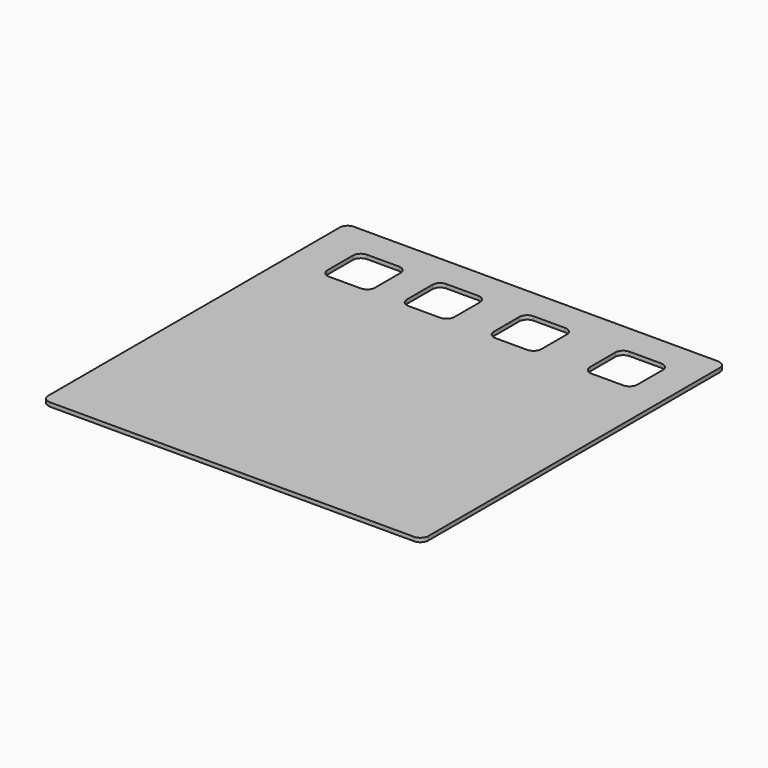
from build123d import *

# Parameters (mm, degrees)
F1_DEPTH = 3.175
F3_DEPTH = 3.175


with BuildPart() as f1:
    # F0 (on Top) → F1 (new body)
    with BuildSketch(Plane.XY):
        with BuildLine():
            ThreePointArc((152.4, 146.05), (150.540128, 150.540128), (146.05, 152.4))
            Line((146.05, 152.4), (-146.05, 152.4))
            ThreePointArc((-146.05, 152.4), (-150.540128, 150.540128), (-152.4, 146.05))
            Line((-152.4, 146.05), (-152.4, -146.05))
            ThreePointArc((-152.4, -146.05), (-150.540128, -150.540128), (-146.05, -152.4))
            Line((-146.05, -152.4), (146.05, -152.4))
            ThreePointArc((146.05, -152.4), (150.540128, -150.540128), (152.4, -146.05))
            Line((152.4, -146.05), (152.4, 146.05))
        make_face()
    extrude(amount=F1_DEPTH)

    # F2 (on face) → F3 (cut, through all)
    with BuildSketch(Plane.XY.offset(3.175)):
        with BuildLine():
            Line((-115.838222, 89.799137), (-90.438222, 89.799137))
            ThreePointArc((-90.438222, 89.799137), (-85.948094, 91.659008), (-84.088222, 96.149137))
            Line((-84.088222, 96.149137), (-84.088222, 121.549137))
            ThreePointArc((-84.088222, 121.549137), (-85.948094, 126.039265), (-90.438222, 127.899137))
            Line((-90.438222, 127.899137), (-115.838222, 127.899137))
            ThreePointArc((-115.838222, 127.899137), (-120.32835, 126.039265), (-122.188222, 121.549137))
            Line((-122.188222, 121.549137), (-122.188222, 96.149137))
            ThreePointArc((-122.188222, 96.149137), (-120.32835, 91.659008), (-115.838222, 89.799137))
        make_face()
        with BuildLine():
            Line((-52.185156, 89.799137), (-26.785156, 89.799137))
            ThreePointArc((-26.785156, 89.799137), (-22.295028, 91.659008), (-20.435156, 96.149137))
            Line((-20.435156, 96.149137), (-20.435156, 121.549137))
            ThreePointArc((-20.435156, 121.549137), (-22.295028, 126.039265), (-26.785156, 127.899137))
            Line((-26.785156, 127.899137), (-52.185156, 127.899137))
            ThreePointArc((-52.185156, 127.899137), (-56.675284, 126.039265), (-58.535156, 121.549137))
            Line((-58.535156, 121.549137), (-58.535156, 96.149137))
            ThreePointArc((-58.535156, 96.149137), (-56.675284, 91.659008), (-52.185156, 89.799137))
        make_face()
        with BuildLine():
            Line((94.603679, 89.799137), (120.003679, 89.799137))
            ThreePointArc((120.003679, 89.799137), (124.493807, 91.659008), (126.353679, 96.149137))
            Line((126.353679, 96.149137), (126.353679, 121.549137))
            ThreePointArc((126.353679, 121.549137), (124.493807, 126.039265), (120.003679, 127.899137))
            Line((120.003679, 127.899137), (94.603679, 127.899137))
            ThreePointArc((94.603679, 127.899137), (90.113551, 126.039265), (88.253679, 121.549137))
            Line((88.253679, 121.549137), (88.253679, 96.149137))
            ThreePointArc((88.253679, 96.149137), (90.113551, 91.659008), (94.603679, 89.799137))
        make_face()
        with BuildLine():
            Line((17.579446, 89.799137), (42.979446, 89.799137))
            ThreePointArc((42.979446, 89.799137), (47.469574, 91.659008), (49.329446, 96.149137))
            Line((49.329446, 96.149137), (49.329446, 121.549137))
            ThreePointArc((49.329446, 121.549137), (47.469574, 126.039265), (42.979446, 127.899137))
            Line((42.979446, 127.899137), (17.579446, 127.899137))
            ThreePointArc((17.579446, 127.899137), (13.089318, 126.039265), (11.229446, 121.549137))
            Line((11.229446, 121.549137), (11.229446, 96.149137))
            ThreePointArc((11.229446, 96.149137), (13.089318, 91.659008), (17.579446, 89.799137))
        make_face()
    extrude(amount=-F3_DEPTH, mode=Mode.SUBTRACT)


solid = f1.part
